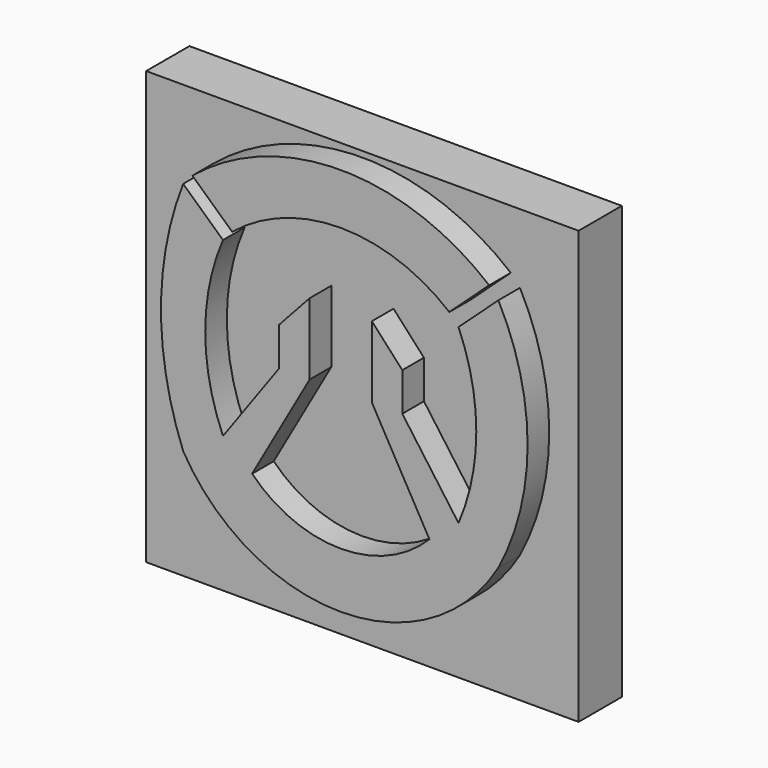
from build123d import *

# Parameters (mm, degrees)
F1_DEPTH = 19.05
F0_W     = 101.6
F0_H     = 101.6
F2_DEPTH = 12.7


with BuildPart() as f1:
    # F0 (on Front) → F1 (new body)
    with BuildSketch(Plane.XZ):
        with BuildLine():
            Line((25.505677, 28.344658), (34.867536, 36.926359))
            ThreePointArc((34.867536, 36.926359), (0, 49.442584), (-34.867536, 36.926359))
            Line((-34.867536, 36.926359), (-25.505677, 28.344658))
            ThreePointArc((-25.505677, 28.344658), (0, 37.46999), (25.505677, 28.344658))
        make_face()
        with BuildLine():
            ThreePointArc((37.031043, -20.767255), (43.901655, 6.877601), (37.031043, 34.522457))
            Line((37.031043, 34.522457), (27.669184, 25.940756))
            ThreePointArc((27.669184, 25.940756), (31.847622, 5.671235), (27.669184, -14.598286))
            Line((27.669184, -14.598286), (14.462836, 3.71246))
            Line((14.462836, 3.71246), (14.462836, 12.735147))
            Line((14.462836, 12.735147), (7.313785, 20.534115))
            Line((7.313785, 20.534115), (7.313785, 3.71246))
            Line((7.313785, 3.71246), (20.831792, -20.171121))
            ThreePointArc((20.831792, -20.171121), (0, -28.904643), (-20.831792, -20.171121))
            Line((-20.831792, -20.171121), (-7.313785, 3.71246))
            Line((-7.313785, 3.71246), (-7.313785, 20.534115))
            Line((-7.313785, 20.534115), (-14.462836, 12.735147))
            Line((-14.462836, 12.735147), (-14.462836, 3.71246))
            Line((-14.462836, 3.71246), (-27.669184, -14.598286))
            ThreePointArc((-27.669184, -14.598286), (-31.847622, 5.671235), (-27.669184, 25.940756))
            Line((-27.669184, 25.940756), (-37.031043, 34.522457))
            ThreePointArc((-37.031043, 34.522457), (-42.237207, 6.877601), (-37.031043, -20.767255))
            ThreePointArc((-37.031043, -20.767255), (0, -41.971698), (37.031043, -20.767255))
        make_face()
    extrude(amount=F1_DEPTH)


with BuildPart() as f2:
    # F0 (on Front) → F2 (new body)
    with BuildSketch(Plane.XZ):
        Rectangle(F0_W, F0_H)
        with BuildLine():
            Line((27.669184, 25.940756), (37.031043, 34.522457))
            ThreePointArc((37.031043, 34.522457), (43.901655, 6.877601), (37.031043, -20.767255))
            ThreePointArc((37.031043, -20.767255), (0, -41.971698), (-37.031043, -20.767255))
            ThreePointArc((-37.031043, -20.767255), (-42.237207, 6.877601), (-37.031043, 34.522457))
            Line((-37.031043, 34.522457), (-27.669184, 25.940756))
            ThreePointArc((-27.669184, 25.940756), (-31.847622, 5.671235), (-27.669184, -14.598286))
            Line((-27.669184, -14.598286), (-14.462836, 3.71246))
            Line((-14.462836, 3.71246), (-14.462836, 12.735147))
            Line((-14.462836, 12.735147), (-7.313785, 20.534115))
            Line((-7.313785, 20.534115), (-7.313785, 3.71246))
            Line((-7.313785, 3.71246), (-20.831792, -20.171121))
            ThreePointArc((-20.831792, -20.171121), (0, -28.904643), (20.831792, -20.171121))
            Line((20.831792, -20.171121), (7.313785, 3.71246))
            Line((7.313785, 3.71246), (7.313785, 20.534115))
            Line((7.313785, 20.534115), (14.462836, 12.735147))
            Line((14.462836, 12.735147), (14.462836, 3.71246))
            Line((14.462836, 3.71246), (27.669184, -14.598286))
            ThreePointArc((27.669184, -14.598286), (31.847622, 5.671235), (27.669184, 25.940756))
        make_face(mode=Mode.SUBTRACT)
        with BuildLine():
            ThreePointArc((-34.867536, 36.926359), (0, 49.442584), (34.867536, 36.926359))
            Line((34.867536, 36.926359), (25.505677, 28.344658))
            ThreePointArc((25.505677, 28.344658), (0, 37.46999), (-25.505677, 28.344658))
            Line((-25.505677, 28.344658), (-34.867536, 36.926359))
        make_face(mode=Mode.SUBTRACT)
    extrude(amount=F2_DEPTH)


solid = Compound([f1.part, f2.part])
